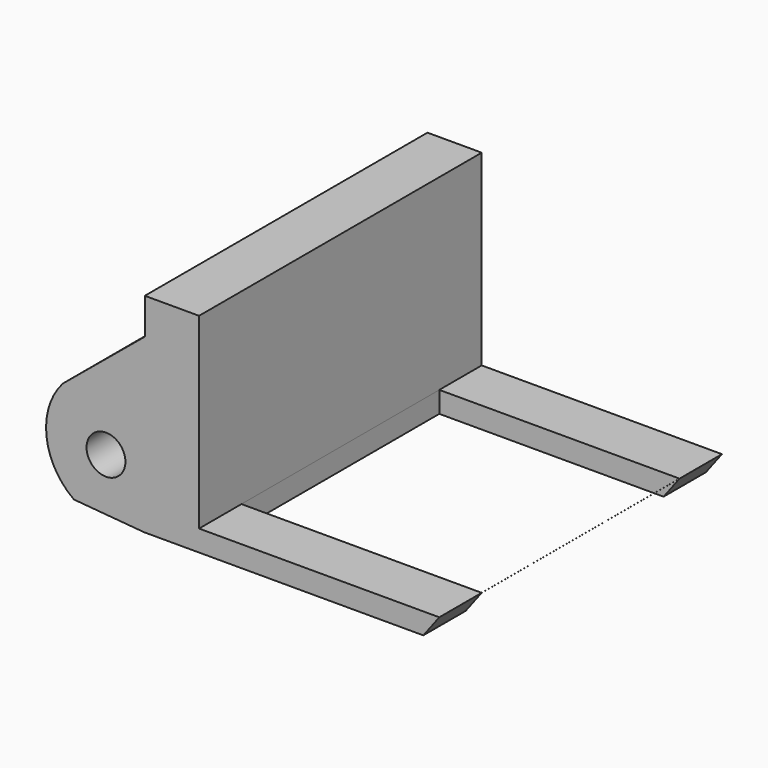
from build123d import *

# Parameters (mm, degrees)
F0_R     = 1.397
F1_DEPTH = 25.4
F2_T     = -2.54
F3_W     = 17.268289
F3_H     = 17.78
F4_DEPTH = 25.4


with BuildPart() as f1:
    # F0 (on Front) → F1 (new body)
    with BuildSketch(Plane.XZ):
        with BuildLine():
            Line((-41.843261, 3.614445), (-41.805504, 3.614445))
            Line((-41.805504, 3.614445), (-41.805504, 16.00973))
            Line((-41.805504, 16.00973), (-47.702763, 11.123672))
            ThreePointArc((-47.702763, 11.123672), (-48.874121, 7.406856), (-46.905078, 4.043872))
            Line((-46.905078, 4.043872), (-41.843261, 3.614445))
        make_face()
        with Locations((-44.598676, 7.634673)):
            Circle(F0_R, mode=Mode.SUBTRACT)
        Polygon((-37.906261, 3.614445), (-37.906261, 5.132796), (-37.906261, 18.597241), (-41.805504, 18.597241), (-41.805504, 16.00973), (-41.805504, 3.614445), align=None)
        with BuildLine():
            Line((-20.637972, 5.132796), (-37.906261, 5.132796))
            Line((-37.906261, 5.132796), (-37.906261, 3.614445))
            Line((-37.906261, 3.614445), (-21.784881, 3.614445))
            Line((-21.784881, 3.614445), (-20.636553, 5.129939))
            ThreePointArc((-20.636553, 5.129939), (-20.636377, 5.131808), (-20.637972, 5.132796))
        make_face()
    extrude(amount=F1_DEPTH)

    # F2
    f2_openings = [f1.faces().sort_by_distance(p)[0] for p in [
        (-29.272116, -12.7, 5.132796),
    ]]
    offset(amount=F2_T, openings=f2_openings)

    # F3 (on face) → F4 (cut)
    with BuildSketch(Plane.XY.offset(5.132796)):
        with Locations((-29.272116, -12.7)):
            Rectangle(F3_W, F3_H)
    extrude(amount=-F4_DEPTH, mode=Mode.SUBTRACT)


solid = f1.part
